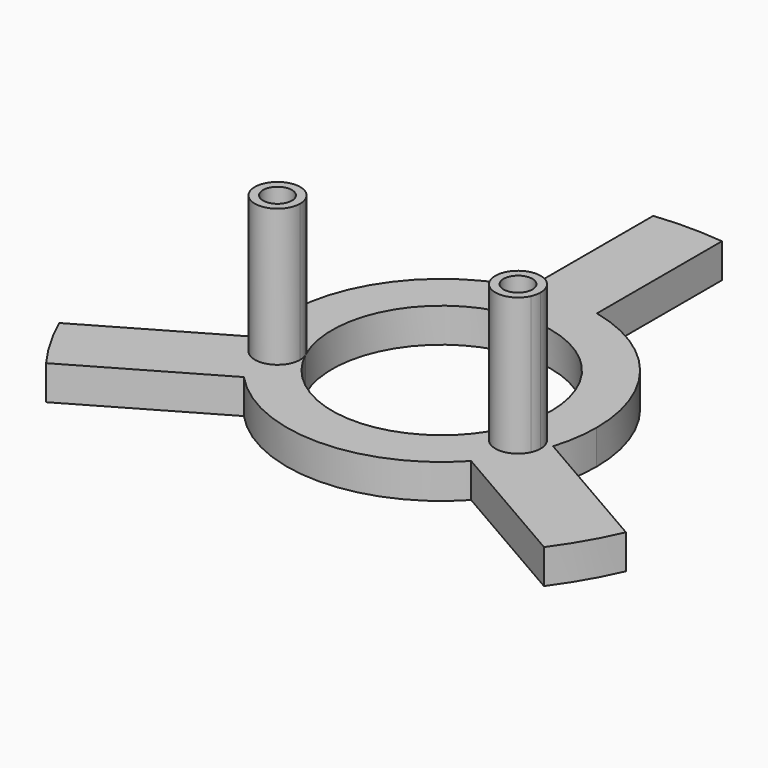
from build123d import *

# Parameters (mm, degrees)
F0_R     = 2.1
F1_DEPTH = 5
F2_DEPTH = 25


with BuildPart() as f1:
    # F0 (on Top) → F1 (new body)
    with BuildSketch(Plane.XY):
        with BuildLine():
            ThreePointArc((-16.535554, -15.320309), (-18.755721, -12.504373), (-20.501266, -9.372007))
            ThreePointArc((-20.501266, -9.372007), (-21.062104, -8.032695), (-21.535554, -6.660055))
            Line((-21.535554, -6.660055), (-41.229833, -18.030553))
            ThreePointArc((-41.229833, -18.030553), (-38.971143, -22.5), (-36.229833, -26.690807))
            Line((-36.229833, -26.690807), (-16.535554, -15.320309))
        make_face()
        with BuildLine():
            Line((-5, 44.72136), (-5, 21.980364))
            ThreePointArc((-5, 21.980364), (0, 22.541881), (5, 21.980364))
            Line((5, 21.980364), (5, 44.72136))
            ThreePointArc((5, 44.72136), (0, 45), (-5, 44.72136))
        make_face()
        with BuildLine():
            ThreePointArc((21.535554, -6.660055), (21.062104, -8.032695), (20.501266, -9.372007))
            ThreePointArc((20.501266, -9.372007), (18.755721, -12.504373), (16.535554, -15.320309))
            Line((16.535554, -15.320309), (36.229833, -26.690807))
            ThreePointArc((36.229833, -26.690807), (38.971143, -22.5), (41.229833, -18.030553))
            Line((41.229833, -18.030553), (21.535554, -6.660055))
        make_face()
        with BuildLine():
            ThreePointArc((-20.501266, -9.372007), (-18.872007, -4.998734), (-14.498734, -6.627993))
            ThreePointArc((-14.498734, -6.627993), (-3.391643, 15.576917), (15.941881, 0))
            ThreePointArc((15.941881, 0), (15.576917, -3.391643), (14.498734, -6.627993))
            ThreePointArc((14.498734, -6.627993), (18.202077, -4.775548), (20.8, -8))
            ThreePointArc((20.8, -8), (20.724452, -8.702077), (20.501266, -9.372007))
            ThreePointArc((20.501266, -9.372007), (21.062104, -8.032695), (21.535554, -6.660055))
            ThreePointArc((21.535554, -6.660055), (22.28888, -3.367827), (22.541881, 0))
            ThreePointArc((22.541881, 0), (17.618823, 14.061063), (5, 21.980364))
            ThreePointArc((5, 21.980364), (0, 22.541881), (-5, 21.980364))
            ThreePointArc((-5, 21.980364), (-19.521842, 11.270941), (-21.535554, -6.660055))
            ThreePointArc((-21.535554, -6.660055), (-21.062104, -8.032695), (-20.501266, -9.372007))
        make_face()
        with BuildLine():
            ThreePointArc((20.8, -8), (18.202077, -4.775548), (14.498734, -6.627993))
            ThreePointArc((14.498734, -6.627993), (16.127993, -11.001266), (20.501266, -9.372007))
            ThreePointArc((20.501266, -9.372007), (20.724452, -8.702077), (20.8, -8))
        make_face()
        with Locations((17.5, -8)):
            Circle(F0_R, mode=Mode.SUBTRACT)
        with Locations((17.5, -8)):
            Circle(F0_R)
        with BuildLine():
            ThreePointArc((-14.498734, -6.627993), (-14.275548, -7.297923), (-14.2, -8))
            ThreePointArc((-14.2, -8), (-16.797924, -11.224452), (-20.501266, -9.372007))
            ThreePointArc((-20.501266, -9.372007), (-18.755721, -12.504373), (-16.535554, -15.320309))
            ThreePointArc((-16.535554, -15.320309), (0, -22.541881), (16.535554, -15.320309))
            ThreePointArc((16.535554, -15.320309), (18.755721, -12.504373), (20.501266, -9.372007))
            ThreePointArc((20.501266, -9.372007), (16.127993, -11.001266), (14.498734, -6.627993))
            ThreePointArc((14.498734, -6.627993), (0, -15.941881), (-14.498734, -6.627993))
        make_face()
        with BuildLine():
            ThreePointArc((-20.501266, -9.372007), (-16.797924, -11.224452), (-14.2, -8))
            ThreePointArc((-14.2, -8), (-14.275548, -7.297923), (-14.498734, -6.627993))
            ThreePointArc((-14.498734, -6.627993), (-18.872007, -4.998734), (-20.501266, -9.372007))
        make_face()
        with Locations((-17.5, -8)):
            Circle(F0_R, mode=Mode.SUBTRACT)
        with Locations((-17.5, -8)):
            Circle(F0_R)
    extrude(amount=F1_DEPTH)

    # F0 (on Top) → F2 (join)
    with BuildSketch(Plane.XY):
        with BuildLine():
            ThreePointArc((-20.501266, -9.372007), (-16.797924, -11.224452), (-14.2, -8))
            ThreePointArc((-14.2, -8), (-14.275548, -7.297923), (-14.498734, -6.627993))
            ThreePointArc((-14.498734, -6.627993), (-18.872007, -4.998734), (-20.501266, -9.372007))
        make_face()
        with Locations((-17.5, -8)):
            Circle(F0_R, mode=Mode.SUBTRACT)
        with BuildLine():
            ThreePointArc((20.8, -8), (18.202077, -4.775548), (14.498734, -6.627993))
            ThreePointArc((14.498734, -6.627993), (16.127993, -11.001266), (20.501266, -9.372007))
            ThreePointArc((20.501266, -9.372007), (20.724452, -8.702077), (20.8, -8))
        make_face()
        with Locations((17.5, -8)):
            Circle(F0_R, mode=Mode.SUBTRACT)
    extrude(amount=F2_DEPTH)


solid = f1.part
